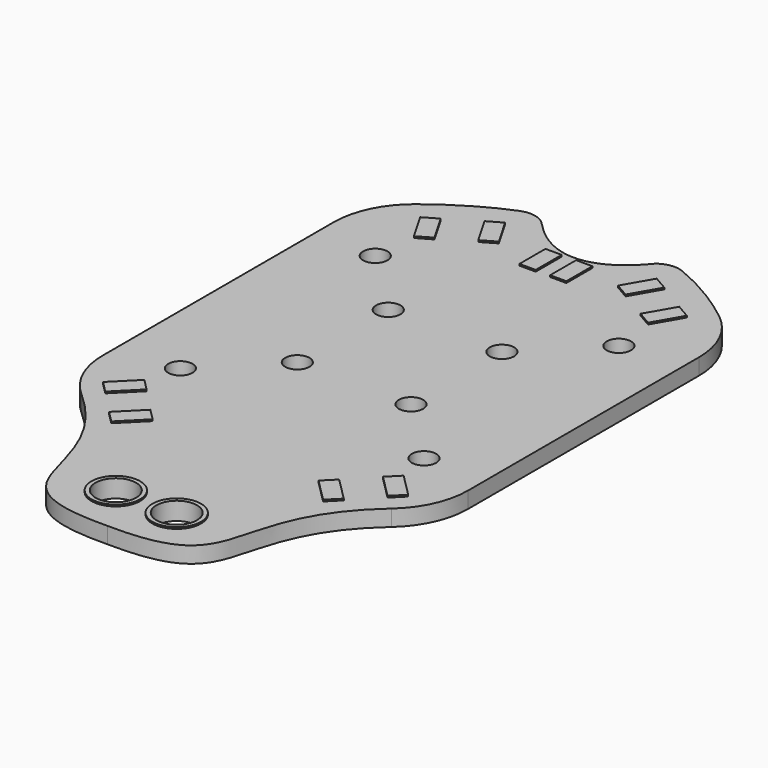
from build123d import *

# Parameters (mm, degrees)
F0_R     = 2.5
F0_R_2   = 1.5
F1_DEPTH = 2
F2_W     = 2
F2_H     = 4
F2_R     = 3
F2_R_2   = 2.5
F3_DEPTH = 0.2


with BuildPart() as f1:
    # F0 (on Top) → F1 (new body)
    with BuildSketch(Plane.XY):
        with BuildLine():
            Line((22.5, -17.5992111466), (22.5, 17.9769920821))
            ThreePointArc((22.5, 17.9769920821), (21.4916275861, 22.3531357443), (18.6698733295, 25.8467228969))
            add(Edge.make_bspline(
                [(10.0202101022, 30.9724353404), (12.9351645554, 29.7852274215), (15.8255721427, 28.076656607), (18.6698733295, 25.8467228969)],
                knots=[32.3872433875, 32.3872433875, 32.3872433875, 32.3872433875, 41.0712182165, 41.0712182165, 41.0712182165, 41.0712182165], degree=3))
            ThreePointArc((10.0202101022, 30.9724353404), (8.4843597996, 31.1666740134), (7.0561575797, 30.569343926))
            add(Edge.make_bspline(
                [(-6.6778963244, 30.2220172158), (-2.1223269725, 25.2559450952), (2.9587594632, 25.5243336352), (7.0561575797, 30.569343926)],
                knots=[1.2111660498, 1.2111660498, 1.2111660498, 1.2111660498, 14.8998546864, 14.8998546864, 14.8998546864, 14.8998546864], degree=3))
            ThreePointArc((-6.6778963244, 30.2220172158), (-8.2314180106, 31.1211658606), (-10.0202101022, 30.9724353404))
            add(Edge.make_bspline(
                [(-18.6698733295, 25.8467228969), (-15.8255721427, 28.076656607), (-12.9351645554, 29.7852274215), (-10.0202101022, 30.9724353404)],
                knots=[3.9287817835, 3.9287817835, 3.9287817835, 3.9287817835, 12.6127566125, 12.6127566125, 12.6127566125, 12.6127566125], degree=3))
            ThreePointArc((-18.6698733295, 25.8467228969), (-21.4916275861, 22.3531357443), (-22.5, 17.9769920821))
            Line((-22.5, 17.9769920821), (-22.5, -17.5992111466))
            ThreePointArc((-22.5, -17.5992111466), (-22.1738774189, -20.1322124661), (-21.216780863, -22.5))
            ThreePointArc((-21.216780863, -22.5), (-20.2661626921, -23.8989505888), (-19.0933749805, -25.1176821592))
            add(Edge.make_bspline(
                [(-19.0933749805, -25.1176821592), (-6.7235541682, -35.9654817875), (-16.745618261, -45.2509330365), (0, -45)],
                knots=[2.3473845635, 2.3473845635, 2.3473845635, 2.3473845635, 31.8198051534, 31.8198051534, 31.8198051534, 31.8198051534], degree=3))
            add(Edge.make_bspline(
                [(19.0933749805, -25.1176821592), (6.7235541682, -35.9654817875), (16.745618261, -45.2509330365), (0, -45)],
                knots=[2.3473845635, 2.3473845635, 2.3473845635, 2.3473845635, 31.8198051534, 31.8198051534, 31.8198051534, 31.8198051534], degree=3))
            ThreePointArc((19.0933749805, -25.1176821592), (21.6086154218, -21.7263318254), (22.5, -17.5992111466))
        make_face()
        with Locations((-3.75, -39)):
            Circle(F0_R, mode=Mode.SUBTRACT)
        with Locations((-15, -15)):
            Circle(F0_R_2, mode=Mode.SUBTRACT)
        with Locations((-7, -7)):
            Circle(F0_R_2, mode=Mode.SUBTRACT)
        with Locations((3.75, -39)):
            Circle(F0_R, mode=Mode.SUBTRACT)
        with Locations((7, -7)):
            Circle(F0_R_2, mode=Mode.SUBTRACT)
        with Locations((15, -15)):
            Circle(F0_R_2, mode=Mode.SUBTRACT)
        with Locations((-7, 7)):
            Circle(F0_R_2, mode=Mode.SUBTRACT)
        with Locations((-15, 15)):
            Circle(F0_R_2, mode=Mode.SUBTRACT)
        with Locations((7, 7)):
            Circle(F0_R_2, mode=Mode.SUBTRACT)
        with Locations((15, 15)):
            Circle(F0_R_2, mode=Mode.SUBTRACT)
        with BuildLine():
            Line((22.5, -17.5992111466), (22.5, 17.9769920821))
            ThreePointArc((22.5, 17.9769920821), (21.4916275861, 22.3531357443), (18.6698733295, 25.8467228969))
            add(Edge.make_bspline(
                [(10.0202101022, 30.9724353404), (12.9351645554, 29.7852274215), (15.8255721427, 28.076656607), (18.6698733295, 25.8467228969)],
                knots=[32.3872433875, 32.3872433875, 32.3872433875, 32.3872433875, 41.0712182165, 41.0712182165, 41.0712182165, 41.0712182165], degree=3))
            ThreePointArc((10.0202101022, 30.9724353404), (8.4843597996, 31.1666740134), (7.0561575797, 30.569343926))
            add(Edge.make_bspline(
                [(-6.6778963244, 30.2220172158), (-2.1223269725, 25.2559450952), (2.9587594632, 25.5243336352), (7.0561575797, 30.569343926)],
                knots=[1.2111660498, 1.2111660498, 1.2111660498, 1.2111660498, 14.8998546864, 14.8998546864, 14.8998546864, 14.8998546864], degree=3))
            ThreePointArc((-6.6778963244, 30.2220172158), (-8.2314180106, 31.1211658606), (-10.0202101022, 30.9724353404))
            add(Edge.make_bspline(
                [(-18.6698733295, 25.8467228969), (-15.8255721427, 28.076656607), (-12.9351645554, 29.7852274215), (-10.0202101022, 30.9724353404)],
                knots=[3.9287817835, 3.9287817835, 3.9287817835, 3.9287817835, 12.6127566125, 12.6127566125, 12.6127566125, 12.6127566125], degree=3))
            ThreePointArc((-18.6698733295, 25.8467228969), (-21.4916275861, 22.3531357443), (-22.5, 17.9769920821))
            Line((-22.5, 17.9769920821), (-22.5, -17.5992111466))
            ThreePointArc((-22.5, -17.5992111466), (-22.1738774189, -20.1322124661), (-21.216780863, -22.5))
            ThreePointArc((-21.216780863, -22.5), (-20.2661626921, -23.8989505888), (-19.0933749805, -25.1176821592))
            add(Edge.make_bspline(
                [(-19.0933749805, -25.1176821592), (-6.7235541682, -35.9654817875), (-16.745618261, -45.2509330365), (0, -45)],
                knots=[2.3473845635, 2.3473845635, 2.3473845635, 2.3473845635, 31.8198051534, 31.8198051534, 31.8198051534, 31.8198051534], degree=3))
            add(Edge.make_bspline(
                [(19.0933749805, -25.1176821592), (6.7235541682, -35.9654817875), (16.745618261, -45.2509330365), (0, -45)],
                knots=[2.3473845635, 2.3473845635, 2.3473845635, 2.3473845635, 31.8198051534, 31.8198051534, 31.8198051534, 31.8198051534], degree=3))
            ThreePointArc((19.0933749805, -25.1176821592), (21.6086154218, -21.7263318254), (22.5, -17.5992111466))
        make_face()
        with Locations((-3.75, -39)):
            Circle(F0_R, mode=Mode.SUBTRACT)
        with Locations((-15, -15)):
            Circle(F0_R_2, mode=Mode.SUBTRACT)
        with Locations((-7, -7)):
            Circle(F0_R_2, mode=Mode.SUBTRACT)
        with Locations((3.75, -39)):
            Circle(F0_R, mode=Mode.SUBTRACT)
        with Locations((7, -7)):
            Circle(F0_R_2, mode=Mode.SUBTRACT)
        with Locations((15, -15)):
            Circle(F0_R_2, mode=Mode.SUBTRACT)
        with Locations((-7, 7)):
            Circle(F0_R_2, mode=Mode.SUBTRACT)
        with Locations((-15, 15)):
            Circle(F0_R_2, mode=Mode.SUBTRACT)
        with Locations((7, 7)):
            Circle(F0_R_2, mode=Mode.SUBTRACT)
        with Locations((15, 15)):
            Circle(F0_R_2, mode=Mode.SUBTRACT)
    extrude(amount=F1_DEPTH)

    # F2 (on face) → F3 (join)
    with BuildSketch(Plane.XY.offset(2)):
        Polygon((-16.4196526402, 23.6817868025), (-14.4196526402, 20.2176851873), (-12.6876018326, 21.2176851873), (-14.6876018326, 24.6817868025), align=None)
        Polygon((-11.0663396811, 26.9043505312), (-9.0663396811, 23.4402489161), (-7.3342888736, 24.4402489161), (-9.3342888736, 27.9043505312), align=None)
        with Locations((-1.8889066383, 24.0563029559)):
            Rectangle(F2_W, F2_H)
        with Locations((1.8889066383, 24.0563029559)):
            Rectangle(F2_W, F2_H)
        Polygon((9.3342888736, 27.9043505312), (7.3342888736, 24.4402489161), (9.0663396811, 23.4402489161), (11.0663396811, 26.9043505312), align=None)
        Polygon((12.6876018326, 21.2176851873), (14.4196526402, 20.2176851873), (16.4196526402, 23.6817868025), (14.6876018326, 24.6817868025), align=None)
        Polygon((-17.3788340109, -23.5849192398), (-14.5510007349, -20.755898391), (-15.9655111593, -19.341981753), (-18.7933444353, -22.1710026018), align=None)
        Polygon((-14.4555578038, -26.6683889275), (-13.0410473794, -28.0823055655), (-10.2132141034, -25.2532847167), (-11.6277245278, -23.8393680786), align=None)
        Polygon((10.2132141034, -25.2532847167), (13.0410473794, -28.0823055655), (14.4555578038, -26.6683889275), (11.6277245278, -23.8393680786), align=None)
        Polygon((14.5510007349, -20.755898391), (17.3788340109, -23.5849192398), (18.7933444353, -22.1710026018), (15.9655111593, -19.341981753), align=None)
        with Locations((-3.75, -39)):
            Circle(F2_R)
        with Locations((-3.75, -39)):
            Circle(F2_R_2, mode=Mode.SUBTRACT)
        with Locations((3.75, -39)):
            Circle(F2_R)
        with Locations((3.75, -39)):
            Circle(F2_R_2, mode=Mode.SUBTRACT)
    extrude(amount=F3_DEPTH)


solid = f1.part
